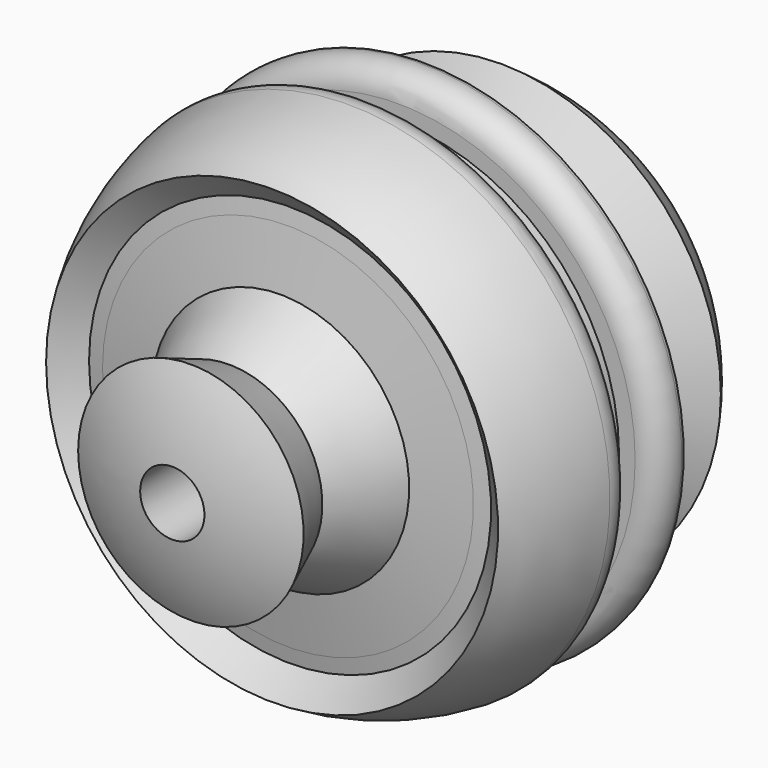
from build123d import *


with BuildPart() as f1:
    # F0 (on Top) → F1 (revolve)
    with BuildSketch(Plane.XY):
        with BuildLine():
            ThreePointArc((-62.545242, -3.871452), (-67.383937, -6.109331), (-68.812107, -11.245613))
            ThreePointArc((-68.812107, -11.245613), (-65.364944, -24.269199), (-59.477514, -36.386745))
            Line((-59.477514, -36.386745), (-52.904103, -30.470128))
            Line((-52.904103, -30.470128), (-48.81893, -31.149261))
            Line((-48.81893, -31.149261), (-33.887528, -33.631508))
            Line((-33.887528, -33.631508), (-24.502555, -50.470354))
            Line((-24.502555, -50.470354), (-29.678512, -63.093231))
            ThreePointArc((-29.678512, -63.093231), (-19.314017, -66.996557), (-8.462225, -69.209542))
            Line((-8.462225, -69.209542), (-8.462225, 18.594198))
            Line((-8.462225, 18.594198), (-11.241315, 18.594198))
            Line((-11.241315, 18.594198), (-11.241315, 36.445595))
            Line((-11.241315, 36.445595), (-40.867944, 56.492309))
            ThreePointArc((-40.867944, 56.492309), (-50.070844, 48.52299), (-57.747349, 39.074462))
            Line((-57.747349, 39.074462), (-12.009284, 8.126023))
            Line((-12.009284, 8.126023), (-12.009284, 2.379198))
            Line((-12.009284, 2.379198), (-34.197826, 6.775041))
            Line((-34.197826, 6.775041), (-18.118672, -14.612668))
            Line((-18.118672, -14.612668), (-47.169622, -21.228219))
            Line((-47.169622, -21.228219), (-42.249095, 8.370103))
            Line((-42.249095, 8.370103), (-68.395652, 13.550081))
            ThreePointArc((-68.395652, 13.550081), (-68.479759, 13.118401), (-68.561143, 12.686198))
            ThreePointArc((-68.561143, 12.686198), (-67.198682, 7.469684), (-62.317134, 5.180839))
            Line((-62.317134, 5.180839), (-58.071777, 5.180839))
            Line((-58.071777, 5.180839), (-58.071777, -3.871452))
            Line((-58.071777, -3.871452), (-62.545242, -3.871452))
        make_face()
        with BuildLine():
            ThreePointArc((-62.545242, -3.871452), (-67.383937, -6.109331), (-68.812107, -11.245613))
            ThreePointArc((-68.812107, -11.245613), (-65.364944, -24.269199), (-59.477514, -36.386745))
            Line((-59.477514, -36.386745), (-52.904103, -30.470128))
            Line((-52.904103, -30.470128), (-48.81893, -31.149261))
            Line((-48.81893, -31.149261), (-33.887528, -33.631508))
            Line((-33.887528, -33.631508), (-24.502555, -50.470354))
            Line((-24.502555, -50.470354), (-29.678512, -63.093231))
            ThreePointArc((-29.678512, -63.093231), (-19.314017, -66.996557), (-8.462225, -69.209542))
            Line((-8.462225, -69.209542), (-8.462225, 18.594198))
            Line((-8.462225, 18.594198), (-11.241315, 18.594198))
            Line((-11.241315, 18.594198), (-11.241315, 36.445595))
            Line((-11.241315, 36.445595), (-40.867944, 56.492309))
            ThreePointArc((-40.867944, 56.492309), (-50.070844, 48.52299), (-57.747349, 39.074462))
            Line((-57.747349, 39.074462), (-12.009284, 8.126023))
            Line((-12.009284, 8.126023), (-12.009284, 2.379198))
            Line((-12.009284, 2.379198), (-34.197826, 6.775041))
            Line((-34.197826, 6.775041), (-18.118672, -14.612668))
            Line((-18.118672, -14.612668), (-47.169622, -21.228219))
            Line((-47.169622, -21.228219), (-42.249095, 8.370103))
            Line((-42.249095, 8.370103), (-68.395652, 13.550081))
            ThreePointArc((-68.395652, 13.550081), (-68.479759, 13.118401), (-68.561143, 12.686198))
            ThreePointArc((-68.561143, 12.686198), (-67.198682, 7.469684), (-62.317134, 5.180839))
            Line((-62.317134, 5.180839), (-58.071777, 5.180839))
            Line((-58.071777, 5.180839), (-58.071777, -3.871452))
            Line((-58.071777, -3.871452), (-62.545242, -3.871452))
        make_face()
    revolve(axis=Axis((0, 0, 0), (0, -1, 0)))


solid = f1.part
